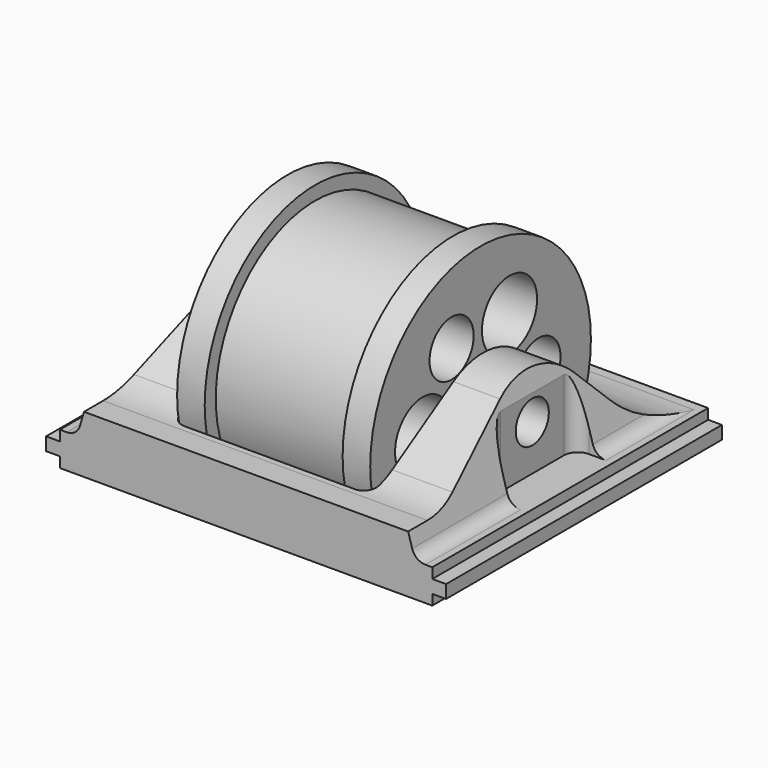
from build123d import *

# Parameters (mm, degrees)
SKETCH001_R          = 20
SKETCH001_R_2        = 3
SKETCH001_R_3        = 5
SKETCH001_R_4        = 4
PAD_DEPTH            = 14
SKETCH002_R          = 20
SKETCH002_R_2        = 18
POCKET_DEPTH         = 10
PAD001_DEPTH         = 50
SKETCH004_R          = 3
POCKET001_DEPTH      = 29.001
POCKET001_DEPTH_BACK = -29.001
POCKET002_DEPTH      = 14.6
POCKET003_DEPTH      = 26.498744
POCKET003_DEPTH_BACK = 0.001
SKETCH007_R          = 5
POCKET004_DEPTH      = 5
SKETCH008_R          = 3
POCKET005_DEPTH      = 9.501


with BuildPart() as spoolbody:
    # Sketch001 → Pad (new body, symmetric)
    with BuildSketch(Plane.YZ):
        with Locations((-25, 20)):
            Circle(SKETCH001_R)
        with Locations((-25, 20)):
            Circle(SKETCH001_R_2, mode=Mode.SUBTRACT)
        with Locations((-19.75, 29.093267)):
            Circle(SKETCH001_R_3, mode=Mode.SUBTRACT)
        with Locations((-14.5, 20)):
            Circle(SKETCH001_R_4, mode=Mode.SUBTRACT)
        with Locations((-19.75, 10.906733)):
            Circle(SKETCH001_R_3, mode=Mode.SUBTRACT)
        with Locations((-30.25, 10.906733)):
            Circle(SKETCH001_R_4, mode=Mode.SUBTRACT)
        with Locations((-35.5, 20)):
            Circle(SKETCH001_R_3, mode=Mode.SUBTRACT)
        with Locations((-30.25, 29.093267)):
            Circle(SKETCH001_R_4, mode=Mode.SUBTRACT)
    extrude(amount=PAD_DEPTH, both=True)

    # Sketch002 → Pocket (cut, symmetric)
    with BuildSketch(Plane.YZ):
        with Locations((-25, 20)):
            Circle(SKETCH002_R)
        with Locations((-25, 20)):
            Circle(SKETCH002_R_2, mode=Mode.SUBTRACT)
    extrude(amount=POCKET_DEPTH, both=True, mode=Mode.SUBTRACT)


with BuildPart() as pusherbody:
    # Sketch003 → Pad001 (new body)
    with BuildSketch(Plane.XZ):
        with BuildLine():
            Line((27, 8.5), (27, 10))
            Line((27, 10), (29, 10))
            Line((29, 10), (29, 11.9))
            Line((29, 11.9), (27, 11.9))
            Line((27, 11.9), (27, 13.4))
            Line((27, 13.4), (26, 13.4))
            ThreePointArc((24.079673, 14.841121), (24.799533, 13.80035), (26, 13.4))
            Line((24.079673, 14.841121), (20.25, 28))
            Line((20.25, 28), (14.25, 28))
            Line((14.25, 28), (-14.25, 28))
            Line((-20.25, 28), (-14.25, 28))
            Line((-24.079673, 14.841121), (-20.25, 28))
            ThreePointArc((-26, 13.4), (-24.799533, 13.80035), (-24.079673, 14.841121))
            Line((-27, 13.4), (-26, 13.4))
            Line((-27, 11.9), (-27, 13.4))
            Line((-29, 11.9), (-27, 11.9))
            Line((-29, 10), (-29, 11.9))
            Line((-27, 10), (-29, 10))
            Line((-27, 8.5), (-27, 10))
            Line((-27, 8.5), (27, 8.5))
        make_face()
    extrude(amount=PAD001_DEPTH)

    # Sketch004 → Pocket001 (cut, two sides)
    with BuildSketch(Plane.YZ) as pocket001_sk:
        with Locations((-25, 20)):
            Circle(SKETCH004_R)
        with BuildLine():
            Line((-41.455289, 18.244235), (-30.366178, 24.993165))
            ThreePointArc((-17.511769, 23.279838), (-23.636311, 26.407263), (-30.366178, 24.993165))
            Line((-17.511769, 23.279838), (-12.820988, 18.335207))
            ThreePointArc((-12.820988, 18.335207), (-7.5865, 14.686041), (-1.33651, 13.4))
            Line((-1.33651, 13.4), (5.509181, 13.4))
            Line((5.509181, 13.4), (5.509181, 39.590982))
            Line((5.509181, 39.590982), (-54.900341, 39.590982))
            Line((-54.900341, 39.590982), (-54.900341, 16.824051))
            Line((-54.900341, 16.824051), (-46.520466, 16.824051))
            ThreePointArc((-46.520466, 16.824051), (-43.890212, 17.185813), (-41.455289, 18.244235))
        make_face()
    extrude(amount=-POCKET001_DEPTH, mode=Mode.SUBTRACT)
    extrude(pocket001_sk.sketch, amount=-POCKET001_DEPTH_BACK, mode=Mode.SUBTRACT)

    # Sketch005 (on DatumPlane) → Pocket002 (cut)
    with BuildSketch(Plane(origin=(0, 0, 28), x_dir=(-1, 0, 0), z_dir=(0, 0, 1))):
        with BuildLine():
            Line((-29, 32.75), (-23.5, 32.75))
            ThreePointArc((-21.5, 30.75), (-22.085786, 32.164214), (-23.5, 32.75))
            Line((-21.5, 30.75), (-21.5, 19.25))
            ThreePointArc((-23.5, 17.25), (-22.085786, 17.835786), (-21.5, 19.25))
            Line((-23.5, 17.25), (-29, 17.25))
            Line((-29, 17.25), (-29, 32.75))
        make_face()
        with BuildLine():
            Line((29, 32.75), (23.5, 32.75))
            ThreePointArc((23.5, 32.75), (22.085786, 32.164214), (21.5, 30.75))
            Line((21.5, 30.75), (21.5, 19.25))
            ThreePointArc((21.5, 19.25), (22.085786, 17.835786), (23.5, 17.25))
            Line((23.5, 17.25), (29, 17.25))
            Line((29, 17.25), (29, 32.75))
        make_face()
    extrude(amount=-POCKET002_DEPTH, mode=Mode.SUBTRACT)

    # Sketch006 → Pocket003 (cut, two sides)
    with BuildSketch(Plane.XY) as pocket003_sk:
        with BuildLine():
            Line((-12.34859, -4.737564), (12.344679, -4.737564))
            ThreePointArc((14.344679, -6.737564), (13.758893, -5.32335), (12.344679, -4.737564))
            Line((14.344679, -6.737564), (14.344679, -43.710464))
            ThreePointArc((12.344679, -45.710464), (13.758893, -45.124678), (14.344679, -43.710464))
            Line((12.344679, -45.710464), (-12.34859, -45.710464))
            ThreePointArc((-14.34859, -43.710464), (-13.762803, -45.124678), (-12.34859, -45.710464))
            Line((-14.34859, -43.710464), (-14.34859, -6.737564))
            ThreePointArc((-12.34859, -4.737564), (-13.762803, -5.32335), (-14.34859, -6.737564))
        make_face()
    extrude(amount=POCKET003_DEPTH, mode=Mode.SUBTRACT)
    extrude(pocket003_sk.sketch, amount=-POCKET003_DEPTH_BACK, mode=Mode.SUBTRACT)

    # Sketch007 (on DatumPlane) → Pocket004 (cut, symmetric)
    with BuildSketch(Plane.XY.offset(18)):
        with Locations((-20.5, -7.5)):
            Circle(SKETCH007_R)
    extrude(amount=POCKET004_DEPTH, both=True, mode=Mode.SUBTRACT)

    # Sketch008 (on DatumPlane) → Pocket005 (cut, through all)
    with BuildSketch(Plane.XY.offset(18)):
        with Locations((-20.5, -7.5)):
            Circle(SKETCH008_R)
    extrude(amount=-POCKET005_DEPTH, mode=Mode.SUBTRACT)


solid = Compound([spoolbody.part, pusherbody.part])
